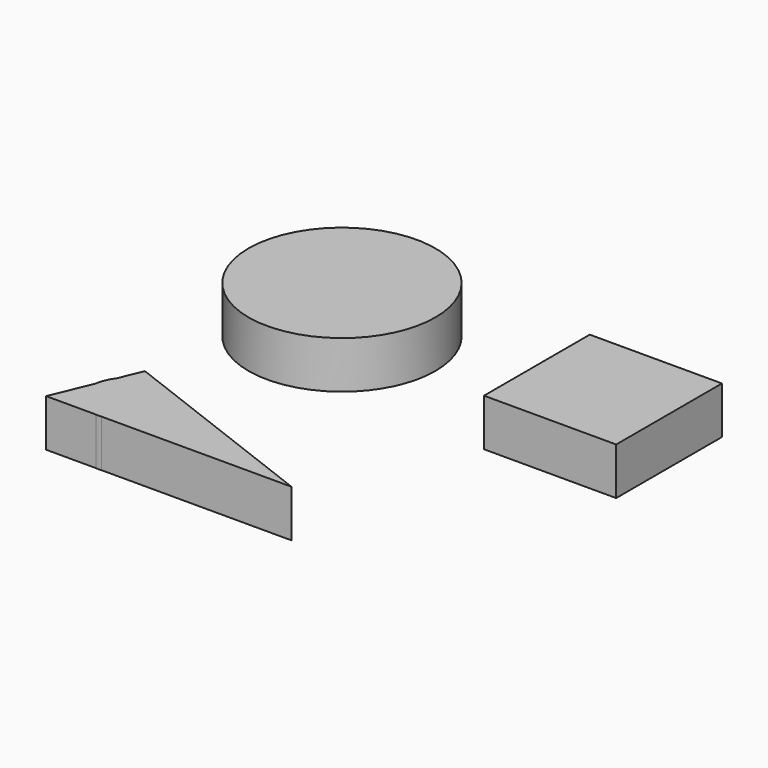
from build123d import *

# Parameters (mm, degrees)
F0_W     = 70
F0_H     = 70
F1_DEPTH = 25


with BuildPart() as f1:
    # F0 (on Top) → F1 (new body)
    with BuildSketch(Plane.XY):
        with BuildLine():
            Line((-78.383885622, 80.7988221571), (-78.383885622, 10.7988221571))
            ThreePointArc((-78.383885622, 10.7988221571), (-67.6541818514, 26.856958652), (-63.886410939, 45.7988221571))
            ThreePointArc((-63.886410939, 45.7988221571), (-67.6541818514, 64.7406856622), (-78.383885622, 80.7988221571))
        make_face()
        with BuildLine():
            ThreePointArc((-148.383885622, 80.7988221571), (-162.8813603051, 45.7988221571), (-148.383885622, 10.7988221571))
            Line((-148.383885622, 10.7988221571), (-148.383885622, 80.7988221571))
        make_face()
        with BuildLine():
            Line((-148.383885622, 80.7988221571), (-78.383885622, 80.7988221571))
            ThreePointArc((-78.383885622, 80.7988221571), (-113.383885622, 95.2962968401), (-148.383885622, 80.7988221571))
        make_face()
        with BuildLine():
            ThreePointArc((-148.383885622, 10.7988221571), (-113.383885622, -3.698652526), (-78.383885622, 10.7988221571))
            Line((-78.383885622, 10.7988221571), (-148.383885622, 10.7988221571))
        make_face()
        with Locations((-113.383885622, 45.7988221571)):
            Rectangle(F0_W, F0_H)
    extrude(amount=F1_DEPTH)


with BuildPart() as f1b:
    # F0 (on Top) → F1, piece 2 (new body)
    with BuildSketch(Plane.XY):
        with BuildLine():
            Line((-136.5828293554, -88.3484685186), (-145.5680037656, -109.8505454913))
            Line((-145.5680037656, -109.8505454913), (-119.2181130045, -109.8505454913))
            ThreePointArc((-119.2181130045, -109.8505454913), (-132.5437753501, -102.8493614933), (-136.5828293554, -88.3484685186))
        make_face()
        with BuildLine():
            ThreePointArc((-98.793231582, -90.9229317547), (-103.8524497559, -103.8255462187), (-116.3333364352, -109.8505454913))
            Line((-116.3333364352, -109.8505454913), (-15.5680037656, -109.8505454913))
            Line((-15.5680037656, -109.8505454913), (-110.0732525797, -73.5733793495))
            ThreePointArc((-110.0732525797, -73.5733793495), (-101.8611532479, -80.5758809385), (-98.793231582, -90.9229317547))
        make_face()
        with BuildLine():
            Line((-127.5976549453, -66.8463915459), (-132.8228365818, -79.3505737261))
            ThreePointArc((-132.8228365818, -79.3505737261), (-123.385238193, -72.7882025226), (-111.8906605133, -72.8757418068))
            Line((-111.8906605133, -72.8757418068), (-127.5976549453, -66.8463915459))
        make_face()
        with BuildLine():
            ThreePointArc((-136.5828293554, -88.3484685186), (-132.5437753501, -102.8493614933), (-119.2181130045, -109.8505454913))
            Line((-119.2181130045, -109.8505454913), (-116.3333364352, -109.8505454913))
            ThreePointArc((-116.3333364352, -109.8505454913), (-103.8524497559, -103.8255462187), (-98.793231582, -90.9229317547))
            ThreePointArc((-98.793231582, -90.9229317547), (-101.8611532479, -80.5758809385), (-110.0732525797, -73.5733793495))
            Line((-110.0732525797, -73.5733793495), (-111.8906605133, -72.8757418068))
            ThreePointArc((-111.8906605133, -72.8757418068), (-123.385238193, -72.7882025226), (-132.8228365818, -79.3505737261))
            Line((-132.8228365818, -79.3505737261), (-136.5828293554, -88.3484685186))
        make_face()
        with BuildLine():
            Line((-116.3333364352, -109.8505454913), (-119.2181130045, -109.8505454913))
            ThreePointArc((-119.2181130045, -109.8505454913), (-117.7757247198, -109.9054248925), (-116.3333364352, -109.8505454913))
        make_face()
        with BuildLine():
            ThreePointArc((-110.0732525797, -73.5733793495), (-110.9730075768, -73.2012477151), (-111.8906605133, -72.8757418068))
            Line((-111.8906605133, -72.8757418068), (-110.0732525797, -73.5733793495))
        make_face()
        with BuildLine():
            ThreePointArc((-132.8228365818, -79.3505737261), (-135.2905048024, -83.603947919), (-136.5828293554, -88.3484685186))
            Line((-136.5828293554, -88.3484685186), (-132.8228365818, -79.3505737261))
        make_face()
    extrude(amount=F1_DEPTH)


with BuildPart() as f1c:
    # F0 (on Top) → F1, piece 3 (new body)
    with BuildSketch(Plane.XY):
        with BuildLine():
            Line((-4.3995198794, 73.5996038932), (-4.3995198794, 38.5996038932))
            ThreePointArc((-4.3995198794, 38.5996038932), (5.8517427791, 63.3483412348), (30.6004801206, 73.5996038932))
            Line((30.6004801206, 73.5996038932), (-4.3995198794, 73.5996038932))
        make_face()
        with BuildLine():
            ThreePointArc((30.6004801206, 73.5996038932), (55.3492174622, 63.3483412348), (65.6004801206, 38.5996038932))
            Line((65.6004801206, 38.5996038932), (65.6004801206, 73.5996038932))
            Line((65.6004801206, 73.5996038932), (30.6004801206, 73.5996038932))
        make_face()
        with BuildLine():
            Line((-4.3995198794, 3.5996038932), (30.6004801206, 3.5996038932))
            ThreePointArc((30.6004801206, 3.5996038932), (5.8517427791, 13.8508665517), (-4.3995198794, 38.5996038932))
            Line((-4.3995198794, 38.5996038932), (-4.3995198794, 3.5996038932))
        make_face()
        with BuildLine():
            Line((30.6004801206, 3.5996038932), (65.6004801206, 3.5996038932))
            Line((65.6004801206, 3.5996038932), (65.6004801206, 38.5996038932))
            ThreePointArc((65.6004801206, 38.5996038932), (55.3492174622, 13.8508665517), (30.6004801206, 3.5996038932))
        make_face()
        with BuildLine():
            ThreePointArc((-4.3995198794, 38.5996038932), (5.8517427791, 13.8508665517), (30.6004801206, 3.5996038932))
            ThreePointArc((30.6004801206, 3.5996038932), (55.3492174622, 13.8508665517), (65.6004801206, 38.5996038932))
            ThreePointArc((65.6004801206, 38.5996038932), (55.3492174622, 63.3483412348), (30.6004801206, 73.5996038932))
            ThreePointArc((30.6004801206, 73.5996038932), (5.8517427791, 63.3483412348), (-4.3995198794, 38.5996038932))
        make_face()
    extrude(amount=F1_DEPTH)


solid = Compound([f1.part, f1b.part, f1c.part])
